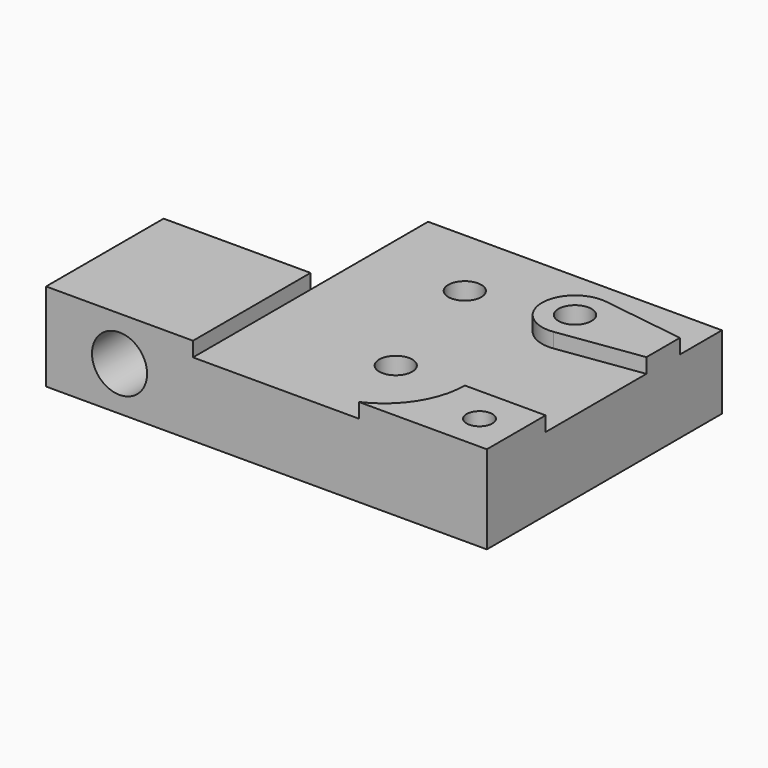
from build123d import *

# Parameters (mm, degrees)
SKETCH_R                       = 2.25
SKETCH_R_2                     = 1.75
PAD_DEPTH                      = 12
POCKET_DEPTH                   = 2
SKETCH002_R                    = 2.25
POCKET002_DEPTH                = 20.001
PART_MIRRORING_PLACEMENT_ANGLE = 180
SKETCH003_R                    = 3
POCKET003_DEPTH                = 8
SKETCH004_R                    = 3.75
POCKET004_DEPTH                = 10


with BuildPart() as pocket002:
    # Sketch → Pad (new body)
    with BuildSketch(Plane.XY):
        Polygon((0, -20), (40, -20), (40, 20), (-20, 20), (-20, 0), (0, 0), align=None)
        with Locations((18, 8)):
            Circle(SKETCH_R, mode=Mode.SUBTRACT)
        with Locations((13, -10)):
            Circle(SKETCH_R, mode=Mode.SUBTRACT)
        with Locations((35, 15)):
            Circle(SKETCH_R_2, mode=Mode.SUBTRACT)
        with Locations((28, -10)):
            Circle(SKETCH_R, mode=Mode.SUBTRACT)
    extrude(amount=PAD_DEPTH)

    # Sketch001 → Pocket (cut)
    with BuildSketch(Plane.XY.offset(12)):
        with BuildLine():
            Line((46, 10), (29, 10))
            ThreePointArc((29, 10), (25.778175, 17.778175), (18, 21))
            Line((18, 21), (0, 21))
            Line((0, 21), (0, -23))
            Line((0, -23), (46, -23))
            Line((46, -23), (46, -12))
            Line((28.629901, -14.455696), (46, -12))
            ThreePointArc((28.629901, -5.544304), (23.5, -10), (28.629901, -14.455696))
            Line((28.629901, -5.544304), (46, -8))
            Line((46, -8), (46, 10))
        make_face()
    extrude(amount=-POCKET_DEPTH, mode=Mode.SUBTRACT)

    # Sketch002 → Pocket002 (cut, through all)
    with BuildSketch(Plane.XZ):
        with Locations((-10, 6)):
            Circle(SKETCH002_R)
    extrude(amount=-POCKET002_DEPTH, mode=Mode.SUBTRACT)


with BuildPart() as pocket004:
    # Part__Mirroring: instance of Pocket002
    add(pocket002.part.mirror(Plane(origin=(10, -0.411961, 0), x_dir=(0, 1, 0), z_dir=(0, 0, 1))))


with BuildPart() as pocket004_1:
    # Part__Mirroring placement: moved
    add(pocket004.part.rotate(Axis((0, 0, 0), (1, 0, 0)), PART_MIRRORING_PLACEMENT_ANGLE))

    # Sketch003 → Pocket003 (cut)
    with BuildSketch(Plane(origin=(0, 0, 0), x_dir=(1, 0, 0), z_dir=(0, 0, -1))):
        with Locations((35, 15)):
            Circle(SKETCH003_R)
    extrude(amount=-POCKET003_DEPTH, mode=Mode.SUBTRACT)

    # Sketch004 → Pocket004 (cut)
    with BuildSketch(Plane(origin=(0, -20, 0), x_dir=(-1, 0, 0), z_dir=(0, -1, 0))):
        with Locations((10, -6)):
            Circle(SKETCH004_R)
    extrude(amount=-POCKET004_DEPTH, mode=Mode.SUBTRACT)


solid = pocket004_1.part
